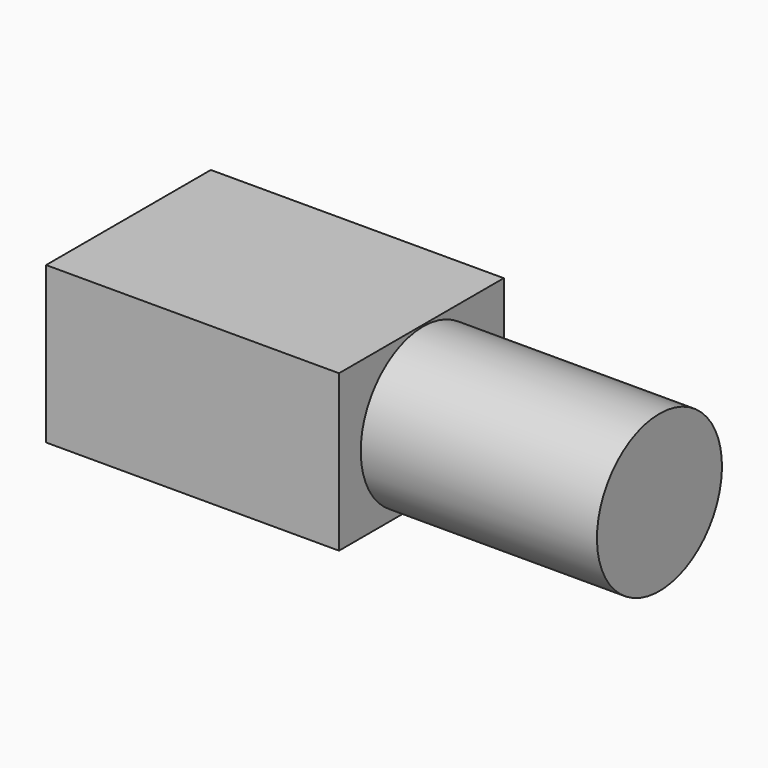
from build123d import *

# Parameters (mm, degrees)
F1_W     = 66.53
F1_H     = 22
F3_DEPTH = 29


with BuildPart() as f2:
    # F1 (on Front) → F2 (revolve)
    with BuildSketch(Plane.XZ):
        with Locations((75.033943, 11)):
            Rectangle(F1_W, F1_H)
    revolve(axis=Axis((75.033943, 0, 0), (1, 0, 0)))


with BuildPart() as f3:
    # F0 (on Front) → F3 (new body, symmetric)
    with BuildSketch(Plane.XZ):
        Polygon((41.25, 0), (41.25, 22), (-41.25, 22), (-41.25, -22), (41.25, -22), align=None)
    extrude(amount=F3_DEPTH, both=True)


solid = Compound([f2.part, f3.part])
